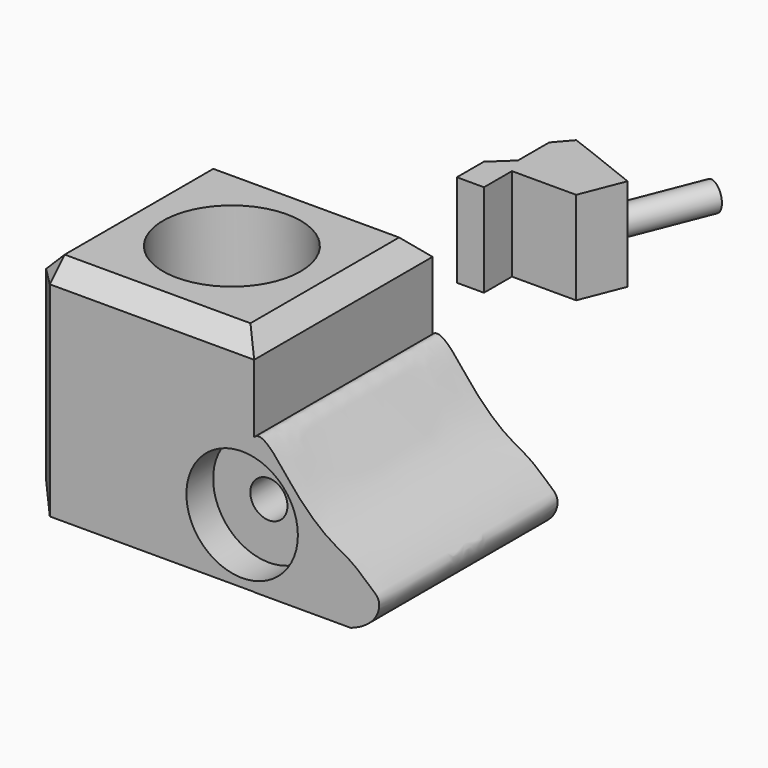
from build123d import *

# Parameters (mm, degrees)
F1_DEPTH  = 60
F2_R      = 18.5
F3_DEPTH  = 40
F4_R      = 15
F5_DEPTH  = 9
F7_D      = 10
F8_R      = 15
F9_DEPTH  = 9
F11_D     = 10
F12_R     = 15
F12_R_2   = 5
F13_DEPTH = 9
F14_SIZE  = 5
F17_DEPTH = 80
F19_DEPTH = 25
F20_R     = 3.7328350118
F21_DEPTH = 25


with BuildPart() as f1:
    # F0 (on Front) → F1 (new body)
    with BuildSketch(Plane.XZ):
        with BuildLine():
            Line((30, 30), (-30, 30))
            Line((-30, 30), (-30, -30))
            Line((-30, -30), (30, -30))
            add(Edge.make_bspline(
                [(30, -30), (27.2898716013, -25.4320075528), (26.0725810609, 2.6429015128), (30, 6.686813198)],
                knots=[0.8212569267, 0.8212569267, 0.8212569267, 0.8212569267, 1, 1, 1, 1], degree=3))
            Line((30, 6.686813198), (30, 30))
        make_face()
        with BuildLine():
            add(Edge.make_bspline(
                [(30, 6.686813198), (32.4037424964, 9.1618540633), (41.092931908, -3.9330331363), (50.3666891959, -11.4125300307), (56.4413019982, -14.1647728527), (61.1492245568, -18.6387644358), (64.2853794844, -20.9965734386), (62.7521105432, -27.2245264469), (52.9976727052, -31.9484525445), (42.2676536377, -30.6092327314), (33.2032888673, -29.6631638006), (30.7690199989, -31.2962033638), (30, -30)],
                knots=[0, 0, 0, 0, 0.1093981385, 0.2194869914, 0.2939063262, 0.3681551135, 0.4229735158, 0.4893932118, 0.582994329, 0.6824101474, 0.7705371903, 0.8212569267, 0.8212569267, 0.8212569267, 0.8212569267], degree=3))
            Line((30, 6.686813198), (30, -30))
        make_face()
        with BuildLine():
            Line((30, -30), (30, 6.686813198))
            add(Edge.make_bspline(
                [(30, -30), (27.2898716013, -25.4320075528), (26.0725810609, 2.6429015128), (30, 6.686813198)],
                knots=[0.8212569267, 0.8212569267, 0.8212569267, 0.8212569267, 1, 1, 1, 1], degree=3))
        make_face()
    extrude(amount=F1_DEPTH)

    # F2 (on face) → F3 (cut)
    with BuildSketch(Plane.XY.offset(30)):
        with Locations((0, -30)):
            Circle(F2_R)
        with Locations((0, -30)):
            Circle(F2_R)
    extrude(amount=-F3_DEPTH, mode=Mode.SUBTRACT)

    # F4 (on face) → F5 (cut)
    with BuildSketch(Plane.XY.offset(-10)):
        with Locations((0, -30)):
            Circle(F4_R)
    extrude(amount=-F5_DEPTH, mode=Mode.SUBTRACT)

    # F7 (through all)
    with Locations(Plane.XY.offset(-19)):
        with Locations((0, -30)):
            Hole(F7_D / 2)

    # F8 (on face) → F9 (cut)
    with BuildSketch(Plane.XZ.offset(60)):
        with Locations((26.7603733739, -12.748638168)):
            Circle(F8_R)
    extrude(amount=-F9_DEPTH, mode=Mode.SUBTRACT)

    # F11 (through all)
    with Locations(Plane.XZ.offset(51)):
        with Locations((26.7603733739, -12.748638168)):
            Hole(F11_D / 2)

    # F12 (on face) → F13 (cut)
    with BuildSketch(Plane(origin=(0, 0, 0), x_dir=(-1, 0, 0), z_dir=(0, 1, 0))):
        with Locations((-26.7603733739, -12.748638168)):
            Circle(F12_R)
        with Locations((-26.7603733739, -12.748638168)):
            Circle(F12_R_2, mode=Mode.SUBTRACT)
    extrude(amount=-F13_DEPTH, mode=Mode.SUBTRACT)

    # F14
    f14_edges = [f1.edges().sort_by_distance(p)[0] for p in [
        (-30, -30, 30),
        (-30, -30, -30),
        (-30, 0, 0),
        (-30, -60, 0),
        (0, 0, 30),
        (0, -60, 30),
        (30, -30, 30),
    ]]
    chamfer(f14_edges, length=F14_SIZE)

    # F16 (on face) → F17 (cut)
    with BuildSketch(Plane.XZ.offset(60)):
        Polygon((56.1993345618, -30.0596710294), (23.1289360672, -30.0596710294), (49.712177366, -33.5852988064), align=None)
    extrude(amount=-F17_DEPTH, mode=Mode.SUBTRACT)


with BuildPart() as f19:
    # F18 (on Top) → F19 (new body)
    with BuildSketch(Plane.XY):
        Polygon((40.5165106058, 52.4674206972), (26.525195688, 58.0056495965), (20.4039979726, 60.337536037), (16.6146829724, 55.9652484953), (16.6146829724, 45.471765101), (11.3679412752, 40.5165106058), (11.3679412752, 31.4804539084), (18.6550822109, 31.4804539084), (18.6550822109, 40.8911202074), (27.1081682295, 40.8911202074), (30.6059960276, 40.8911202074), (35.9342249311, 40.8911202074), align=None)
    extrude(amount=F19_DEPTH)

    # F20 (on face) → F21 (join)
    with BuildSketch(Plane(origin=(23.4434329635, 59.2255140253, 0), x_dir=(-0.9298066113, 0.3680484555, 0), z_dir=(0.3680484555, 0.9298066113, 0))):
        with Locations((-10.8381894265, 11.6255441681)):
            Circle(F20_R)
    extrude(amount=F21_DEPTH)


solid = Compound([f1.part, f19.part])
